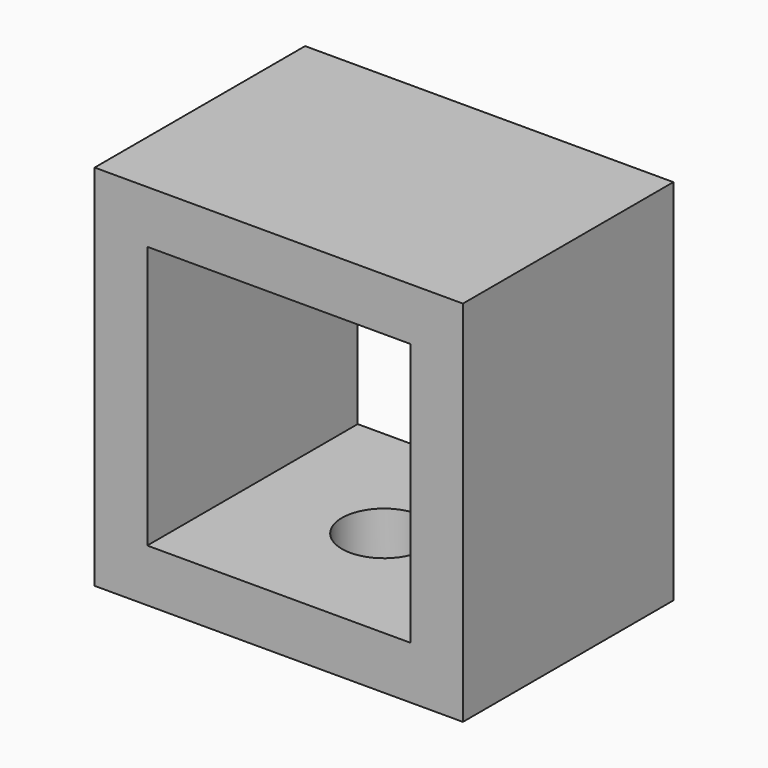
from build123d import *

# Parameters (mm, degrees)
F0_W     = 35
F0_H     = 35
F0_W_2   = 25
F0_H_2   = 25
F1_DEPTH = 25
F2_R     = 4
F3_DEPTH = 25


with BuildPart() as f1:
    # F0 (on Front) → F1 (new body)
    with BuildSketch(Plane.XZ):
        Rectangle(F0_W, F0_H)
        Rectangle(F0_W_2, F0_H_2, mode=Mode.SUBTRACT)
    extrude(amount=F1_DEPTH)

    # F2 (on face) → F3 (cut)
    with BuildSketch(Plane(origin=(0, 0, -17.5), x_dir=(1, 0, 0), z_dir=(0, 0, -1))):
        with Locations((0, 12.5)):
            Circle(F2_R)
    extrude(amount=-F3_DEPTH, mode=Mode.SUBTRACT)


solid = f1.part
